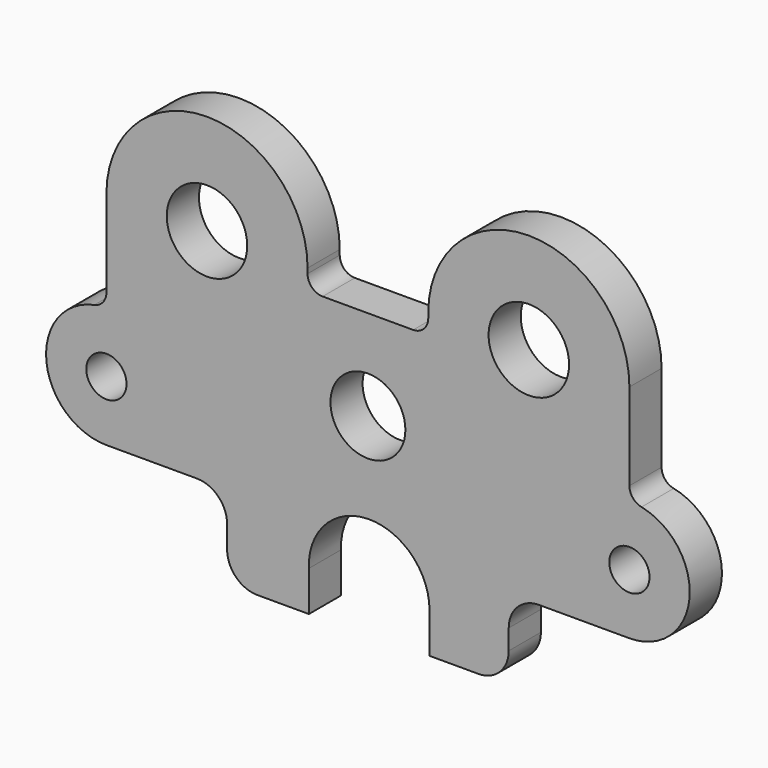
from build123d import *

# Parameters (mm, degrees)
F0_R     = 7.9375
F0_R_2   = 11.828435
F0_R_3   = 12.7
F0_R_4   = 6.35
F1_DEPTH = 12.7


with BuildPart() as f1:
    # F0 (on Front) → F1 (new body)
    with BuildSketch(Plane.XZ):
        with BuildLine():
            Line((82.55, 7.45639), (82.55, 34.925))
            ThreePointArc((82.55, 34.925), (50.8, 66.675), (19.05, 34.925))
            Line((19.05, 34.925), (19.05, 33.3375))
            ThreePointArc((19.05, 33.3375), (17.655096, 29.969904), (14.2875, 28.575))
            Line((14.2875, 28.575), (-14.2875, 28.575))
            ThreePointArc((-14.2875, 28.575), (-17.655096, 29.969904), (-19.05, 33.3375))
            Line((-19.05, 33.3375), (-19.05, 34.925))
            ThreePointArc((-19.05, 34.925), (-50.8, 66.675), (-82.55, 34.925))
            Line((-82.55, 34.925), (-82.55, 7.45639))
            ThreePointArc((-82.55, 7.45639), (-83.623483, 4.44432), (-86.36, 2.790112))
            ThreePointArc((-86.36, 2.790112), (-101.503534, -17.789696), (-82.55, -34.925))
            Line((-82.55, -34.925), (-53.975, -34.925))
            ThreePointArc((-53.975, -34.925), (-47.239808, -37.714808), (-44.45, -44.45))
            Line((-44.45, -44.45), (-44.45, -51.575074))
            ThreePointArc((-44.45, -51.575074), (-41.660192, -58.310266), (-34.925, -61.100074))
            Line((-34.925, -61.100074), (-18.634955, -61.100074))
            Line((-18.634955, -61.100074), (-18.634955, -48.400074))
            ThreePointArc((-18.634955, -48.400074), (0.011654, -28.578944), (19.449271, -47.625))
            Line((19.449271, -47.625), (19.449271, -60.325))
            Line((19.449271, -60.325), (34.925, -60.325))
            ThreePointArc((34.925, -60.325), (41.660192, -57.535192), (44.45, -50.8))
            Line((44.45, -50.8), (44.45, -44.45))
            ThreePointArc((44.45, -44.45), (47.239808, -37.714808), (53.975, -34.925))
            Line((53.975, -34.925), (82.55, -34.925))
            ThreePointArc((82.55, -34.925), (101.503534, -17.789696), (86.36, 2.790112))
            ThreePointArc((86.36, 2.790112), (83.623483, 4.44432), (82.55, 7.45639))
        make_face()
        with Locations((-82.55, -15.875)):
            Circle(F0_R, mode=Mode.SUBTRACT)
        Circle(F0_R_2, mode=Mode.SUBTRACT)
        with Locations((82.55, -15.875)):
            Circle(F0_R, mode=Mode.SUBTRACT)
        with Locations((-50.8, 34.925)):
            Circle(F0_R_3, mode=Mode.SUBTRACT)
        with Locations((50.8, 34.925)):
            Circle(F0_R_3, mode=Mode.SUBTRACT)
        with Locations((-82.55, -15.875)):
            Circle(F0_R)
        with Locations((-82.55, -15.875)):
            Circle(F0_R_4, mode=Mode.SUBTRACT)
        with Locations((82.55, -15.875)):
            Circle(F0_R)
        with Locations((82.55, -15.875)):
            Circle(F0_R_4, mode=Mode.SUBTRACT)
    extrude(amount=F1_DEPTH)


solid = f1.part
